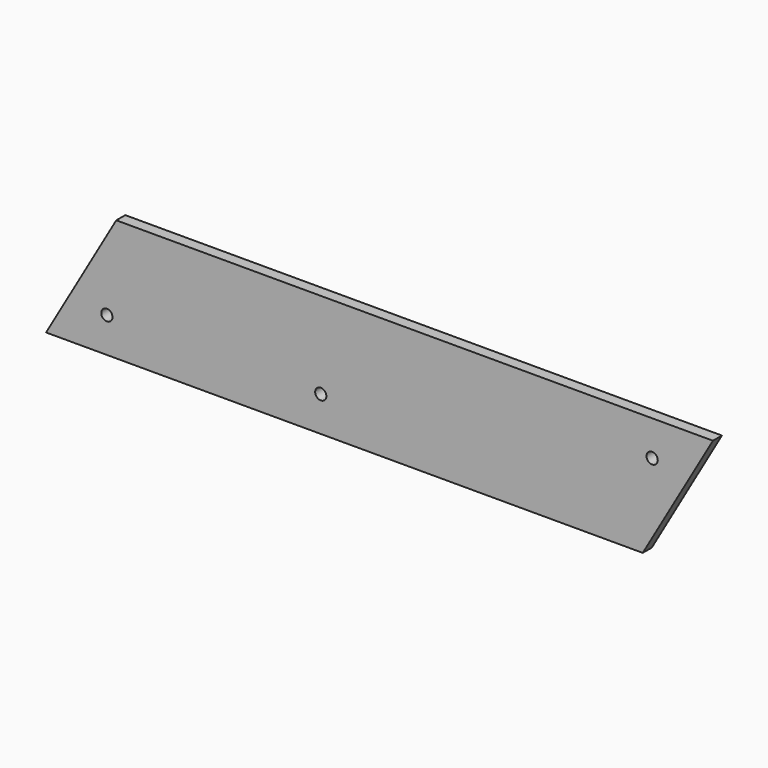
from build123d import *

# Parameters (mm, degrees)
F0_R     = 1.6
F1_DEPTH = 3.2
F2_R     = 1.6
F3_DEPTH = 6


with BuildPart() as f1:
    # F0 (on Front) → F1 (new body)
    with BuildSketch(Plane.XZ):
        Polygon((83.125, -21.650635), (103.125, 12.990381), (-66.875, 12.990381), (-86.875, -21.650635), align=None)
        with Locations((-69.554492, -11.650635)):
            Circle(F0_R, mode=Mode.SUBTRACT)
        with Locations((85.804492, 2.990381)):
            Circle(F0_R, mode=Mode.SUBTRACT)
    extrude(amount=F1_DEPTH)

    # F2 (on face) → F3 (cut)
    with BuildSketch(Plane.XZ.offset(3.2)):
        with Locations((-8.611966, -11.650635)):
            Circle(F2_R)
    extrude(amount=-F3_DEPTH, mode=Mode.SUBTRACT)


solid = f1.part
